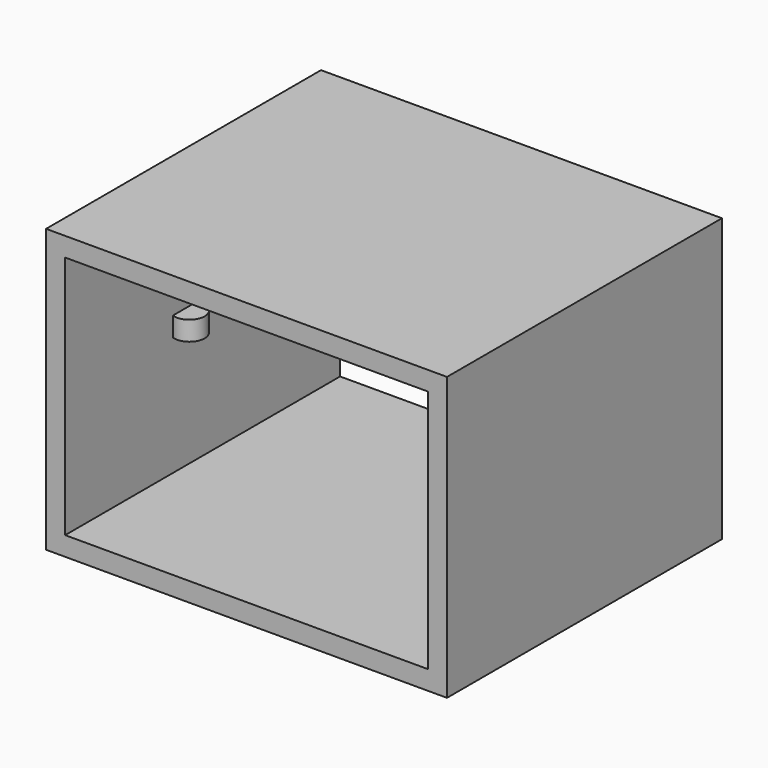
from build123d import *

# Parameters (mm, degrees)
F0_W     = 525
F0_H     = 370
F0_W_2   = 475
F0_H_2   = 320
F1_DEPTH = 450
F2_R     = 20
F3_DEPTH = 25.4


with BuildPart() as f1:
    # F0 (on Front) → F1 (new body)
    with BuildSketch(Plane.XZ):
        with Locations((-111.832442, 3.89076)):
            Rectangle(F0_W, F0_H)
        with Locations((-111.832442, 3.89076)):
            Rectangle(F0_W_2, F0_H_2, mode=Mode.SUBTRACT)
    extrude(amount=F1_DEPTH)

    # F2 (on Top) → F3 (join)
    with BuildSketch(Plane.XY):
        with BuildLine():
            ThreePointArc((-362.828566, -254.863829), (-342.828566, -274.863829), (-322.828566, -254.863829))
            Line((-322.828566, -254.863829), (-362.828566, -254.863829))
        make_face()
        with BuildLine():
            Line((-362.828566, -254.863829), (-322.828566, -254.863829))
            ThreePointArc((-322.828566, -254.863829), (-342.828566, -234.863829), (-362.828566, -254.863829))
        make_face()
        with Locations((63.092852, -254.863829)):
            Circle(F2_R)
    extrude(amount=F3_DEPTH)


solid = f1.part
